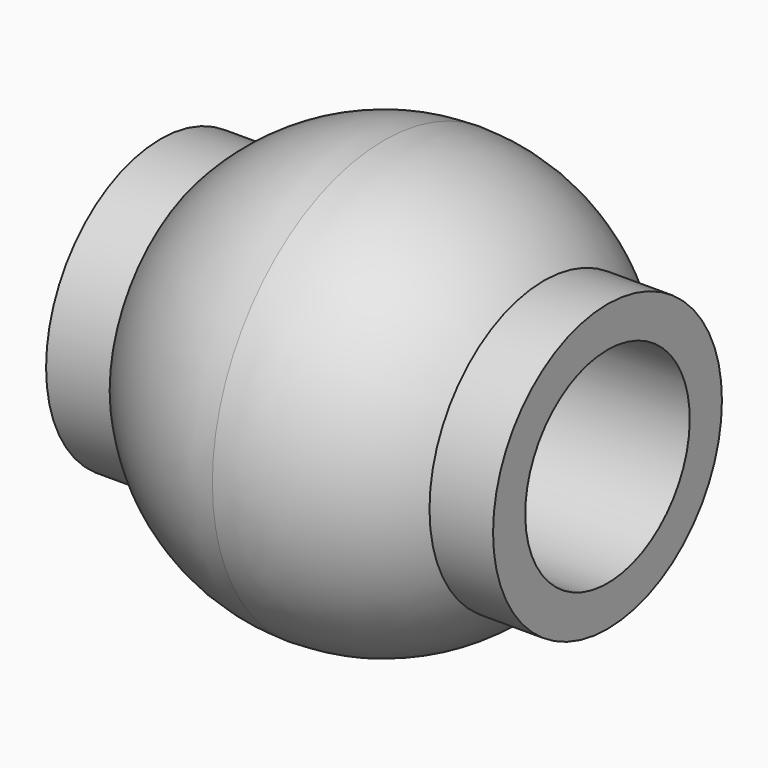
from build123d import *


with BuildPart() as f1:
    # F0 (on Front) → F1 (revolve)
    with BuildSketch(Plane.XZ):
        with BuildLine():
            Line((3.175, 2.032), (2.271845, 2.032))
            ThreePointArc((2.271845, 2.032), (1.244341, 2.782431), (0, 3.048))
            ThreePointArc((0, 3.048), (-1.244341, 2.782431), (-2.271845, 2.032))
            Line((-2.271845, 2.032), (-3.175, 2.032))
            Line((-3.175, 2.032), (-3.175, 1.4605))
            Line((-3.175, 1.4605), (0, 1.4605))
            Line((0, 1.4605), (3.175, 1.4605))
            Line((3.175, 1.4605), (3.175, 2.032))
        make_face()
    revolve(axis=Axis((36.829252, 0, 0), (1, 0, 0)))


solid = f1.part
